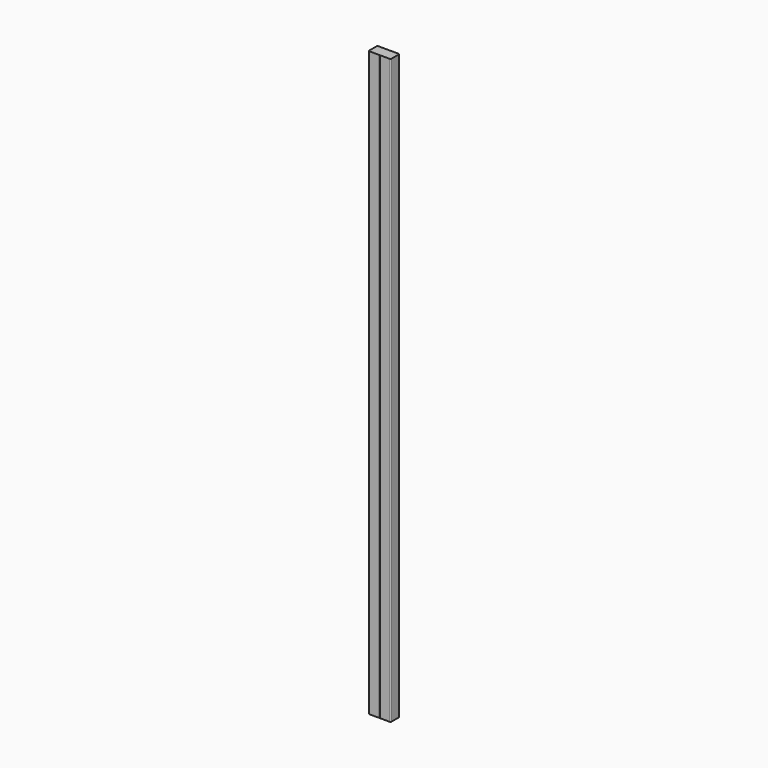
from build123d import *

# Parameters (mm, degrees)
F1_DEPTH = 2006.6


with BuildPart() as f1:
    # F0 (on Top) → F1 (new body)
    with BuildSketch(Plane.XY):
        with BuildLine():
            ThreePointArc((38.1, 15.875), (37.170064, 18.120064), (34.925, 19.05))
            Line((34.925, 19.05), (3.175, 19.05))
            ThreePointArc((3.175, 19.05), (0.929936, 18.120064), (0, 15.875))
            Line((0, 15.875), (0, -15.875))
            ThreePointArc((0, -15.875), (0.929936, -18.120064), (3.175, -19.05))
            Line((3.175, -19.05), (34.925, -19.05))
            ThreePointArc((34.925, -19.05), (37.170064, -18.120064), (38.1, -15.875))
            Line((38.1, -15.875), (38.1, 15.875))
        make_face()
        with BuildLine():
            Line((0, -15.875), (0, 15.875))
            ThreePointArc((0, 15.875), (-0.929936, 18.120064), (-3.175, 19.05))
            Line((-3.175, 19.05), (-34.925, 19.05))
            ThreePointArc((-34.925, 19.05), (-37.170064, 18.120064), (-38.1, 15.875))
            Line((-38.1, 15.875), (-38.1, -15.875))
            ThreePointArc((-38.1, -15.875), (-37.170064, -18.120064), (-34.925, -19.05))
            Line((-34.925, -19.05), (-3.175, -19.05))
            ThreePointArc((-3.175, -19.05), (-0.929936, -18.120064), (0, -15.875))
        make_face()
    extrude(amount=F1_DEPTH)


solid = f1.part
